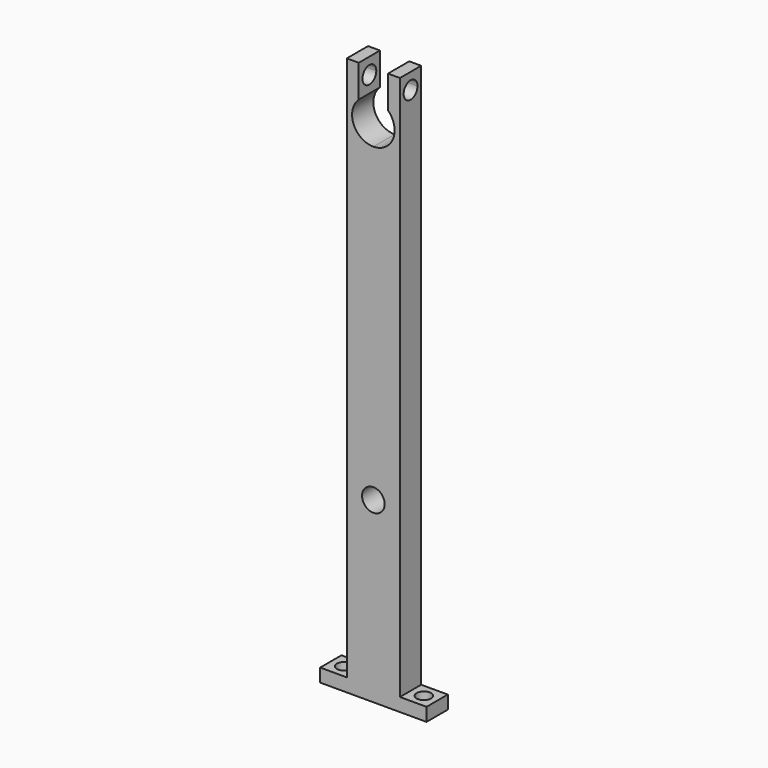
from build123d import *

# Parameters (mm, degrees)
F1_DEPTH = 5
F3_DEPTH = 25
F5_DEPTH = 5


with BuildPart() as f1:
    # F0 (on Front) → F1 (new body, symmetric)
    with BuildSketch(Plane.XZ):
        with BuildLine():
            Line((-10, 105), (-10, -105))
            Line((-10, -105), (10, -105))
            Line((10, -105), (10, 105))
            Line((10, 105), (5.5, 105))
            Line((5.5, 105), (5.5, 92.809475))
            ThreePointArc((5.5, 92.809475), (7.348469, 90.162278), (8, 87))
            ThreePointArc((8, 87), (5.656854, 81.343146), (0, 79))
            ThreePointArc((0, 79), (-7.43222, 84.039916), (-5.5, 92.809475))
            Line((-5.5, 92.809475), (-5.5, 105))
            Line((-5.5, 105), (-10, 105))
        make_face()
        with BuildLine():
            ThreePointArc((4.25, -38), (-3.005204, -41.005204), (0, -33.75))
            ThreePointArc((0, -33.75), (3.005204, -34.994796), (4.25, -38))
        make_face(mode=Mode.SUBTRACT)
    extrude(amount=F1_DEPTH, both=True)

    # F2 (on face) → F3 (cut)
    with BuildSketch(Plane.YZ.offset(10)):
        with BuildLine():
            ThreePointArc((0, 102.25), (-2.298097, 96.701903), (3.25, 99))
            ThreePointArc((3.25, 99), (2.298097, 101.298097), (0, 102.25))
        make_face()
    extrude(amount=-F3_DEPTH, mode=Mode.SUBTRACT)

    # F4 (on face) → F5 (join)
    with BuildSketch(Plane(origin=(0, 0, -105), x_dir=(1, 0, 0), z_dir=(0, 0, -1))):
        with BuildLine():
            ThreePointArc((-12.25, 0), (-13.055456, 1.944544), (-15, 2.75))
            ThreePointArc((-15, 2.75), (-16.944544, -1.944544), (-12.25, 0))
        make_face()
        Polygon((-10, -5), (-10, 5), (-15, 5), (-20, 5), (-20, -5), align=None)
        with BuildLine():
            ThreePointArc((-12.25, 0), (-16.944544, -1.944544), (-15, 2.75))
            ThreePointArc((-15, 2.75), (-13.055456, 1.944544), (-12.25, 0))
        make_face(mode=Mode.SUBTRACT)
        with BuildLine():
            ThreePointArc((17.75, 0), (16.944544, 1.944544), (15, 2.75))
            ThreePointArc((15, 2.75), (13.055456, -1.944544), (17.75, 0))
        make_face()
        Polygon((15, 5), (10, 5), (10, -5), (20, -5), (20, 5), align=None)
        with BuildLine():
            ThreePointArc((17.75, 0), (13.055456, -1.944544), (15, 2.75))
            ThreePointArc((15, 2.75), (16.944544, 1.944544), (17.75, 0))
        make_face(mode=Mode.SUBTRACT)
    extrude(amount=-F5_DEPTH)


solid = f1.part
